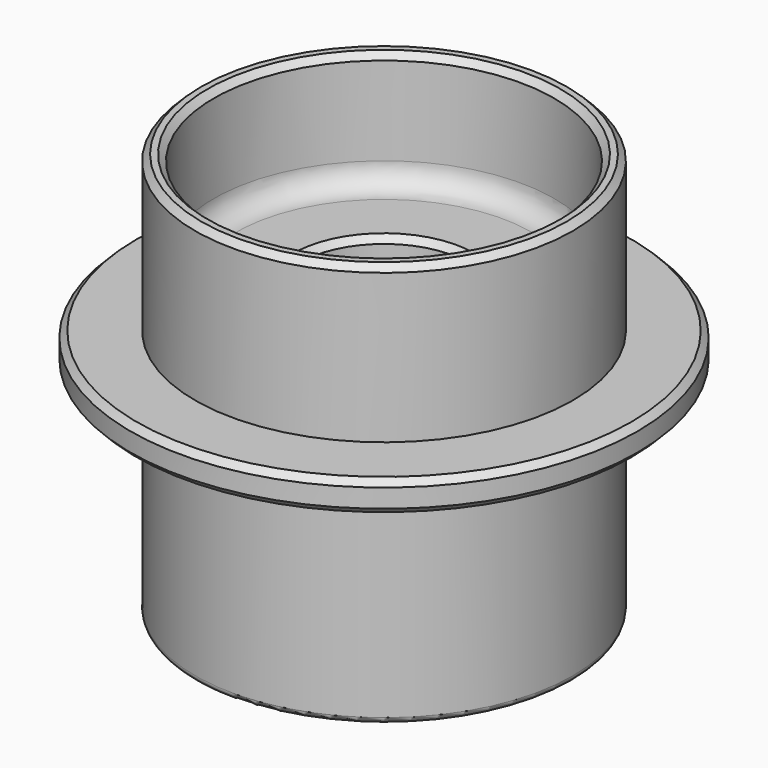
from build123d import *

# Parameters (mm, degrees)
F2_R    = 0.127
F3_SIZE = 0.127
F4_SIZE = 0.127


with BuildPart() as f1:
    # F0 (on Front) → F1 (revolve)
    with BuildSketch(Plane.XZ):
        with BuildLine():
            Line((3.8608, 8.255), (3.4798, 8.255))
            Line((3.4798, 8.255), (3.4798, 6.324395))
            ThreePointArc((3.4798, 6.324395), (3.345949, 6.001251), (3.022805, 5.8674))
            Line((3.022805, 5.8674), (1.7272, 5.8674))
            Line((1.7272, 5.8674), (1.7272, 0.889))
            Line((1.7272, 0.889), (2.5781, 0.889))
            Line((2.5781, 0.889), (3.637569, 0))
            Line((3.637569, 0), (3.8608, 0))
            Line((3.8608, 0), (3.8608, 4.445))
            Line((3.8608, 4.445), (5.1816, 4.445))
            Line((5.1816, 4.445), (5.1816, 5.08))
            Line((5.1816, 5.08), (3.8608, 5.08))
            Line((3.8608, 5.08), (3.8608, 8.255))
        make_face()
    revolve(axis=Axis((0, 0, 7.74301), (0, 0, 1)))

    # F2
    f2_edges = [f1.edges().sort_by_distance(p)[0] for p in [
        (-3.8608, 0, 0),
    ]]
    fillet(f2_edges, radius=F2_R)

    # F3
    f3_edges = [f1.edges().sort_by_distance(p)[0] for p in [
        (-1.7272, 0, 0.889),
    ]]
    chamfer(f3_edges, length=F3_SIZE)

    # F4
    f4_edges = [f1.edges().sort_by_distance(p)[0] for p in [
        (-1.7272, 0, 5.8674),
        (-3.4798, 0, 8.255),
        (-3.8608, 0, 8.255),
        (-5.1816, 0, 5.08),
        (-5.1816, 0, 4.445),
    ]]
    chamfer(f4_edges, length=F4_SIZE)


solid = f1.part
